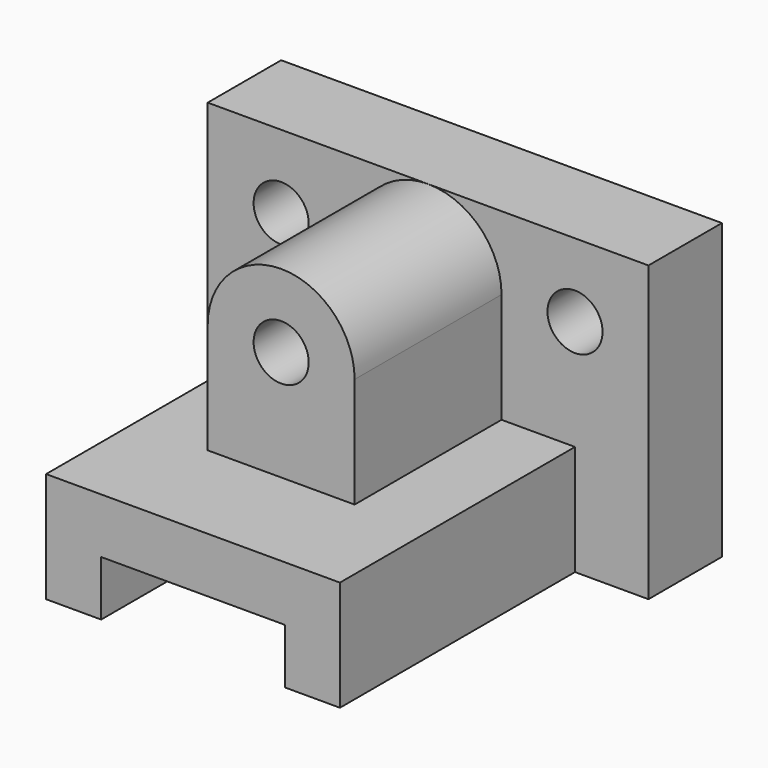
from build123d import *

# Parameters (mm, degrees)
F1_DEPTH  = 80
F3_DEPTH  = 25
F4_R      = 7.5
F5_DEPTH  = 50
F6_R      = 7.5
F7_DEPTH  = 25
F9_W      = 50
F9_H      = 15
F10_DEPTH = 25
F11_R     = 7.5
F12_DEPTH = 25


with BuildPart() as f1:
    # F0 (on Front) → F1 (new body)
    with BuildSketch(Plane.XZ):
        Polygon((0, 30), (0, 0), (15, 0), (15, 15), (65, 15), (65, 0), (80, 0), (80, 30), align=None)
    extrude(amount=F1_DEPTH)

    # F2 (on face) → F3 (join)
    with BuildSketch(Plane(origin=(0, 0, 0), x_dir=(-1, 0, 0), z_dir=(0, 1, 0))):
        Polygon((-100, 0), (0, 0), (20, 0), (20, 80), (-100, 80), align=None)
    extrude(amount=F3_DEPTH)

    # F4 (on face) → F5 (join)
    with BuildSketch(Plane.XZ):
        with BuildLine():
            Line((20, 30), (40, 30))
            Line((40, 30), (60, 30))
            Line((60, 30), (60, 60))
            ThreePointArc((60, 60), (40, 80), (20, 60))
            Line((20, 60), (20, 30))
        make_face()
        with Locations((40, 60)):
            Circle(F4_R, mode=Mode.SUBTRACT)
    extrude(amount=F5_DEPTH)

    # F6 (on face) → F7 (cut, through all)
    with BuildSketch(Plane.XZ):
        with Locations((80, 60)):
            Circle(F6_R)
        with Locations((0, 60)):
            Circle(F6_R)
    extrude(amount=-F7_DEPTH, mode=Mode.SUBTRACT)

    # F9 (on face) → F10 (cut, through all)
    with BuildSketch(Plane.XZ):
        with Locations((40, 7.5)):
            Rectangle(F9_W, F9_H)
    extrude(amount=-F10_DEPTH, mode=Mode.SUBTRACT)

    # F11 (on face) → F12 (cut, through all)
    with BuildSketch(Plane.XZ):
        with Locations((40, 60)):
            Circle(F11_R)
    extrude(amount=-F12_DEPTH, mode=Mode.SUBTRACT)


solid = f1.part
